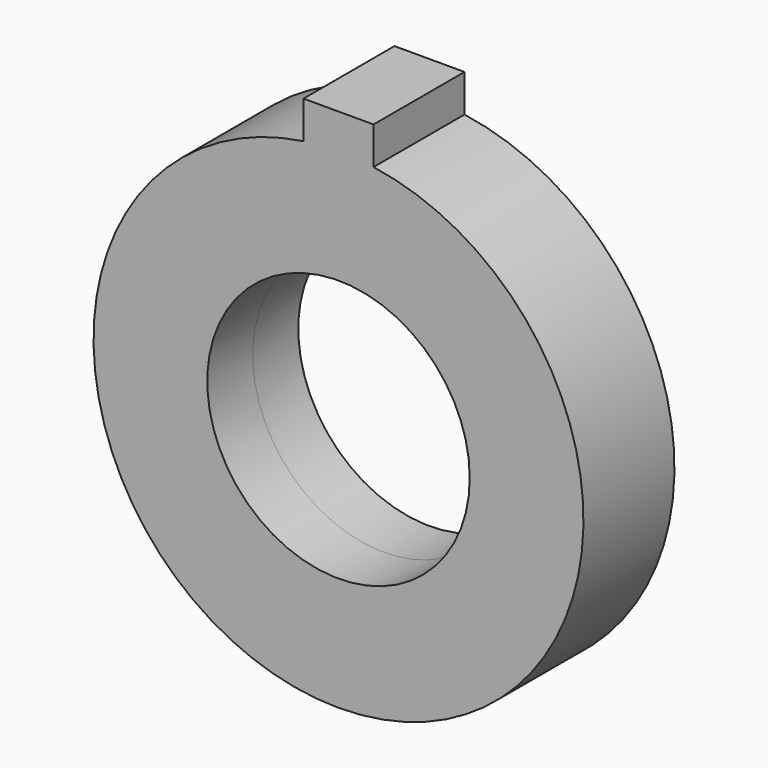
from build123d import *

# Parameters (mm, degrees)
F0_R          = 7.5
F1_DEPTH      = 3.25
F1_DEPTH_BACK = 3.25


with BuildPart() as f1:
    # F0 (on Front) → F1 (new body, two sides)
    with BuildSketch(Plane.XZ) as f1_sk:
        with BuildLine():
            Line((-2, 16), (-2, 13.856406))
            ThreePointArc((-2, 13.856406), (0, -14), (2, 13.856406))
            Line((2, 13.856406), (2, 16))
            Line((2, 16), (-2, 16))
        make_face()
        Circle(F0_R, mode=Mode.SUBTRACT)
    extrude(amount=F1_DEPTH)
    extrude(f1_sk.sketch, amount=-F1_DEPTH_BACK)


solid = f1.part
